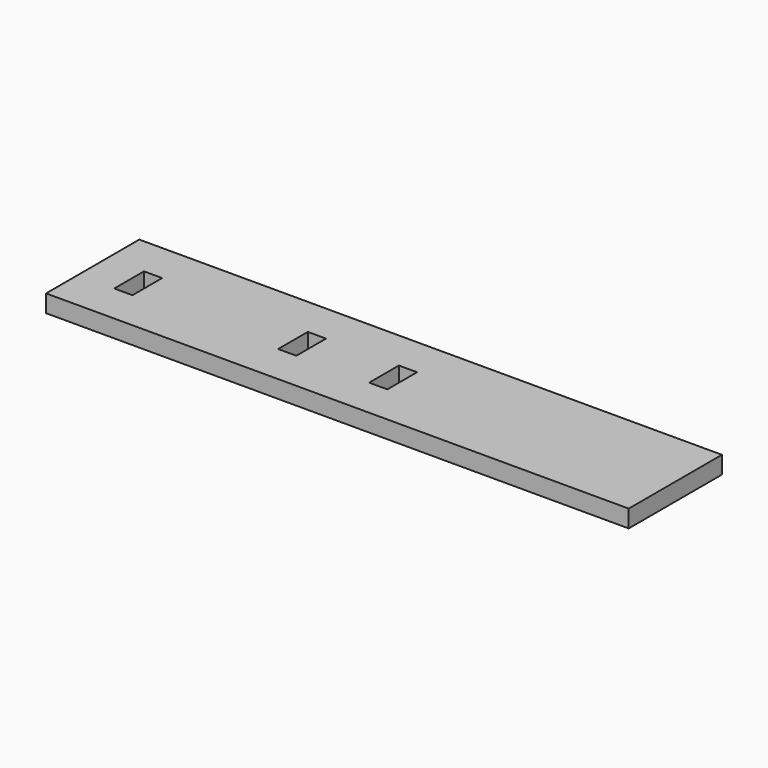
from build123d import *

# Parameters (mm, degrees)
F0_W     = 160
F0_H     = 32
F0_W_2   = 5
F0_H_2   = 10.2
F1_DEPTH = 4.8


with BuildPart() as f1:
    # F0 (on Top) → F1 (new body)
    with BuildSketch(Plane.XY):
        with Locations((80, 16)):
            Rectangle(F0_W, F0_H)
        with Locations((12.5, 16)):
            Rectangle(F0_W_2, F0_H_2, mode=Mode.SUBTRACT)
        with Locations((57.5, 16)):
            Rectangle(F0_W_2, F0_H_2, mode=Mode.SUBTRACT)
        with Locations((82.5, 16)):
            Rectangle(F0_W_2, F0_H_2, mode=Mode.SUBTRACT)
    extrude(amount=F1_DEPTH)


solid = f1.part
